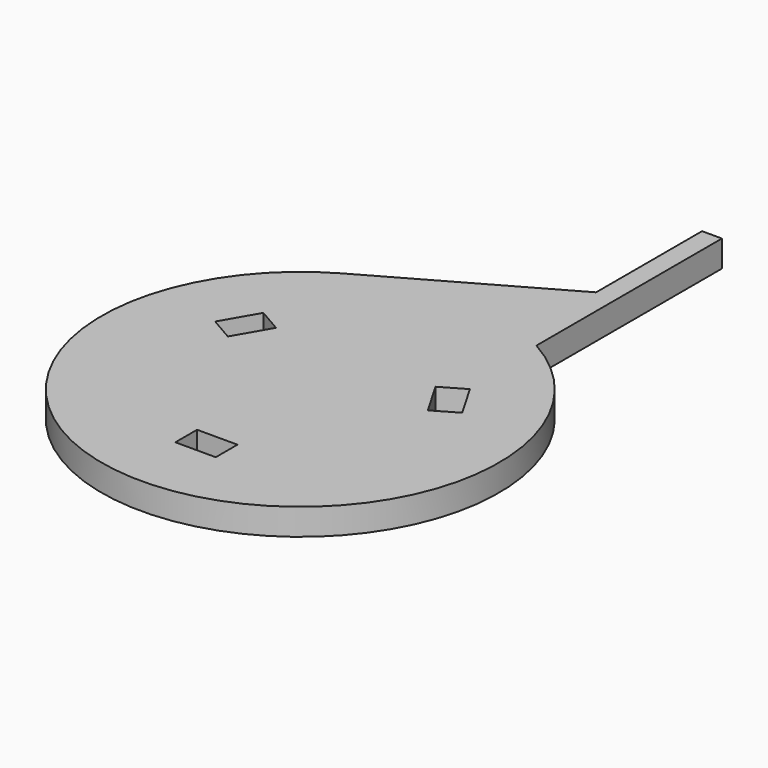
from build123d import *

# Parameters (mm, degrees)
PAD_DEPTH          = 8
SKETCH001_W        = 12.2
SKETCH001_H        = 8.2
POCKET_DEPTH       = 8
POLARPATTERN_COUNT = 3


with BuildPart() as part:
    # Sketch → Pad (new body)
    with BuildSketch(Plane.XY):
        with BuildLine():
            ThreePointArc((-29.53026, 52.229912), (0, -60), (29.53026, 52.229912))
            Line((29.53026, 122.229912), (29.53026, 52.229912))
            Line((23.53026, 122.229912), (29.53026, 122.229912))
            Line((23.53026, 122.229912), (23.53026, 82.229912))
            Line((23.53026, 82.229912), (-29.53026, 52.229912))
        make_face()
    extrude(amount=PAD_DEPTH)

    # Sketch001 → Pocket (cut)
    with BuildSketch(Plane.XY.offset(8)):
        with Locations((0, -35.432139)):
            Rectangle(SKETCH001_W, SKETCH001_H)
    pocket = extrude(amount=-POCKET_DEPTH, mode=Mode.SUBTRACT)

    # PolarPattern: Pocket ×3 about axis
    polarpattern_axis = Axis((0, 0, 8), (0, 0, 1))
    for i in range(1, POLARPATTERN_COUNT):
        add(pocket.rotate(polarpattern_axis, i * 360 / POLARPATTERN_COUNT), mode=Mode.SUBTRACT)


solid = part.part
